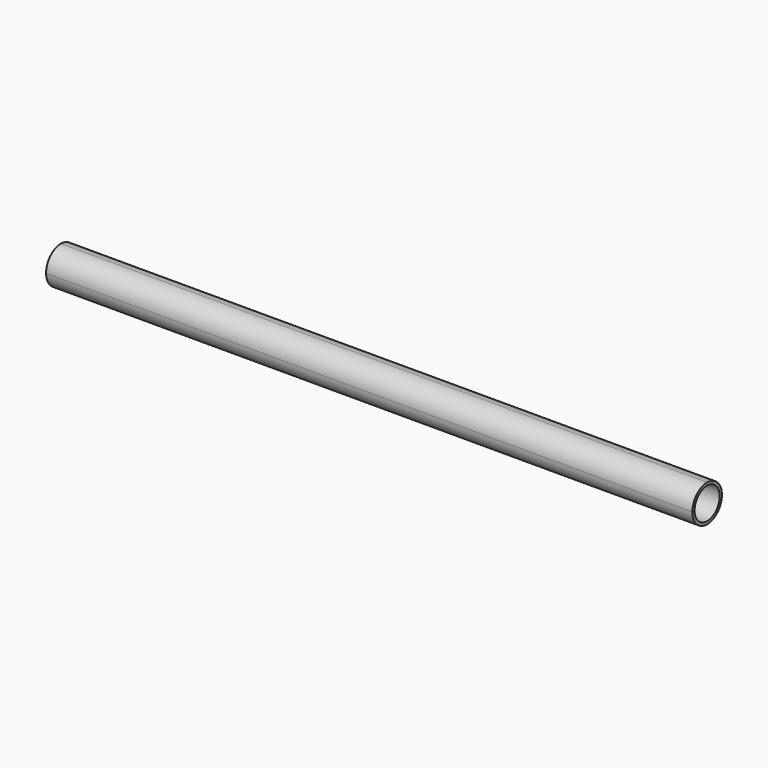
from build123d import *

# Parameters (mm, degrees)
F0_W          = 350
F0_H          = 20
F1_DEPTH      = 10
F1_DEPTH_BACK = 10
F2_R          = 8.5
F3_DEPTH      = 355.6


with BuildPart() as f1:
    # F0 (on Top) → F1 (new body, two sides)
    with BuildSketch(Plane.XY) as f1_sk:
        Rectangle(F0_W, F0_H)
    extrude(amount=F1_DEPTH)
    extrude(f1_sk.sketch, amount=-F1_DEPTH_BACK)

    # F2 (on face) → F3 (cut)
    with BuildSketch(Plane(origin=(-175, 0, 0), x_dir=(0, -1, 0), z_dir=(-1, 0, 0))):
        with BuildLine():
            ThreePointArc((0, 10), (7.071068, 7.071068), (10, 0))
            Line((10, 0), (10, 10))
            Line((10, 10), (0, 10))
        make_face()
        with BuildLine():
            Line((10, -10), (10, 0))
            ThreePointArc((10, 0), (7.071068, -7.071068), (0, -10))
            Line((0, -10), (10, -10))
        make_face()
        with BuildLine():
            ThreePointArc((-10, 0), (-7.071068, 7.071068), (0, 10))
            Line((0, 10), (-10, 10))
            Line((-10, 10), (-10, 0))
        make_face()
        with BuildLine():
            Line((-10, -10), (0, -10))
            ThreePointArc((0, -10), (-7.071068, -7.071068), (-10, 0))
            Line((-10, 0), (-10, -10))
        make_face()
        Circle(F2_R)
    extrude(amount=-F3_DEPTH, mode=Mode.SUBTRACT)


solid = f1.part
